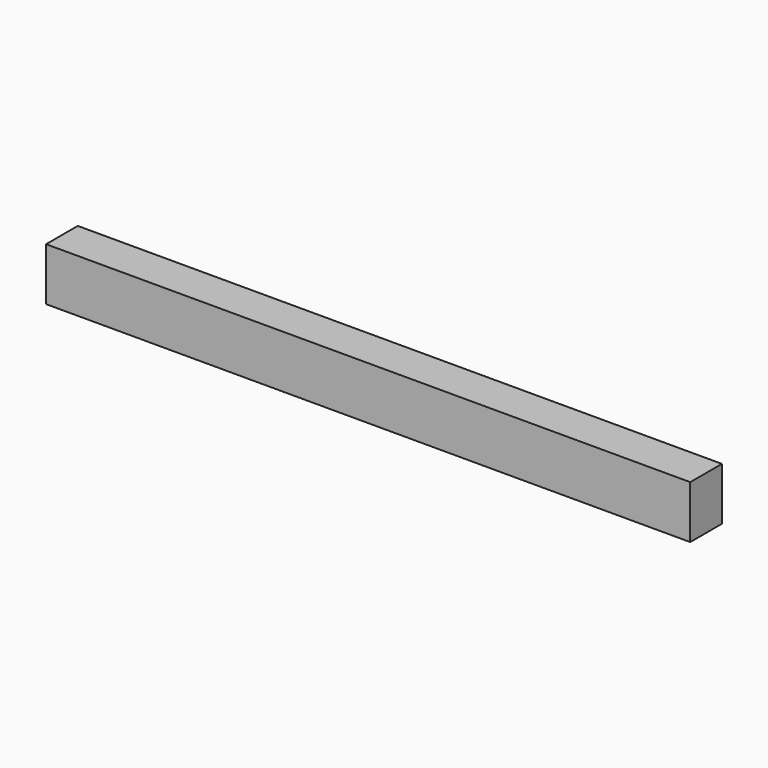
from build123d import *

# Parameters (mm, degrees)
EXTRUDE_DEPTH = 48


with BuildPart() as part:
    # Sketch → Extrude (new body)
    with BuildSketch(Plane.XY):
        Polygon((0, 0), (0, 36), (585.685341, 36), (585.685425, 0), align=None)
    extrude(amount=EXTRUDE_DEPTH)


solid = part.part
